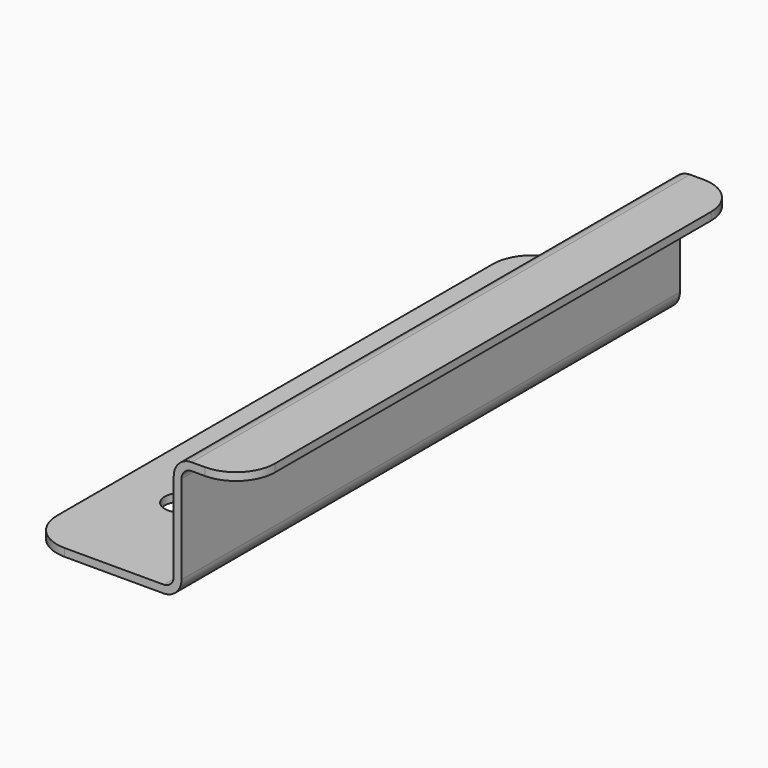
from build123d import *

# Parameters (mm, degrees)
F1_DEPTH = 40
F2_R     = 2.15
F3_DEPTH = 1
F4_R     = 5


with BuildPart() as f1:
    # F0 (on Front) → F1 (new body, symmetric)
    with BuildSketch(Plane.XZ):
        with BuildLine():
            Line((0, 1), (0, 0))
            Line((0, 0), (17.7, 0))
            ThreePointArc((17.7, 0), (19.326346, 0.673654), (20, 2.3))
            Line((20, 2.3), (20, 13.7))
            ThreePointArc((20, 13.7), (20.380761, 14.619239), (21.3, 15))
            Line((21.3, 15), (28, 15))
            Line((28, 15), (28, 16))
            Line((28, 16), (21.3, 16))
            ThreePointArc((21.3, 16), (19.673654, 15.326346), (19, 13.7))
            Line((19, 13.7), (19, 2.3))
            ThreePointArc((19, 2.3), (18.619239, 1.380761), (17.7, 1))
            Line((17.7, 1), (0, 1))
        make_face()
    extrude(amount=F1_DEPTH, both=True)

    # F2 (on face) → F3 (cut, through all)
    with BuildSketch(Plane.XY.offset(1)):
        with Locations((8, 25)):
            Circle(F2_R)
        with Locations((8, 0)):
            Circle(F2_R)
        with Locations((8, -25)):
            Circle(F2_R)
    extrude(amount=-F3_DEPTH, mode=Mode.SUBTRACT)

    # F4
    f4_edges = [f1.edges().sort_by_distance(p)[0] for p in [
        (0, 40, 0.5),
        (0, -40, 0.5),
        (28, -40, 15.5),
        (28, 40, 15.5),
    ]]
    fillet(f4_edges, radius=F4_R)


solid = f1.part
